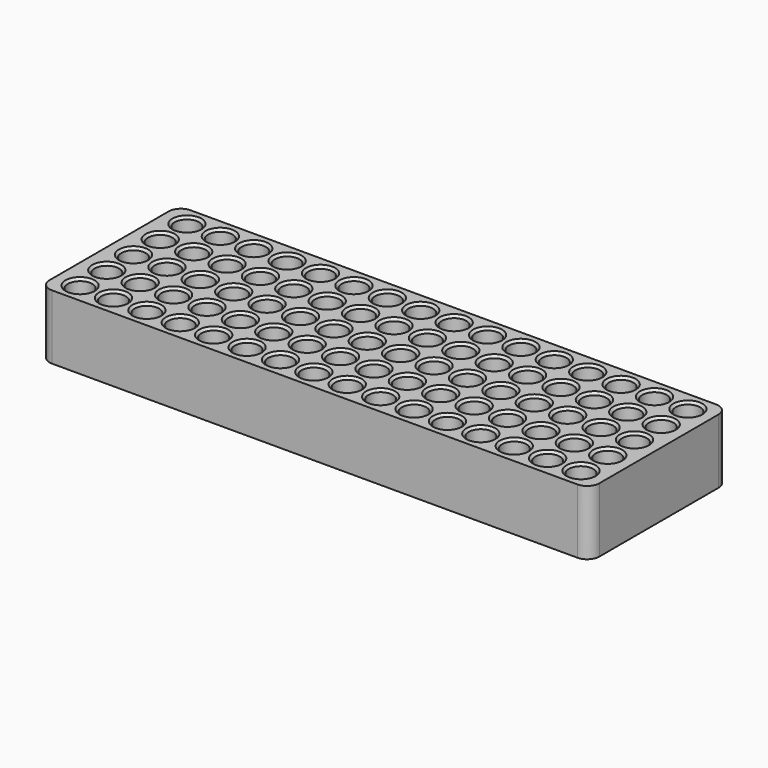
from build123d import *

# Parameters (mm, degrees)
F0_W     = 230
F0_H     = 72.5
F1_DEPTH = 13.5
F2_R     = 5.1
F3_DEPTH = 27.001
F4_SIZE  = 1
F5_R     = 5.08


with BuildPart() as f1:
    # F0 (on Top) → F1 (new body, symmetric)
    with BuildSketch(Plane.XY):
        Rectangle(F0_W, F0_H)
    extrude(amount=F1_DEPTH, both=True)

    # F2 (on face) → F3 (cut, through all)
    with BuildSketch(Plane.XY.offset(13.5)):
        with Locations((-104.775, 27.94)):
            Circle(F2_R)
        with Locations((-104.775, 13.97)):
            Circle(F2_R)
        with Locations((-104.775, 0)):
            Circle(F2_R)
        with Locations((-104.775, -13.97)):
            Circle(F2_R)
        with Locations((-104.775, -27.94)):
            Circle(F2_R)
        with Locations((-90.805, 27.94)):
            Circle(F2_R)
        with Locations((-90.805, 13.97)):
            Circle(F2_R)
        with Locations((-90.805, 0)):
            Circle(F2_R)
        with Locations((-90.805, -13.97)):
            Circle(F2_R)
        with Locations((-90.805, -27.94)):
            Circle(F2_R)
        with Locations((-76.835, 27.94)):
            Circle(F2_R)
        with Locations((-76.835, 13.97)):
            Circle(F2_R)
        with Locations((-76.835, 0)):
            Circle(F2_R)
        with Locations((-76.835, -13.97)):
            Circle(F2_R)
        with Locations((-76.835, -27.94)):
            Circle(F2_R)
        with Locations((-62.865, 27.94)):
            Circle(F2_R)
        with Locations((-62.865, 13.97)):
            Circle(F2_R)
        with Locations((-62.865, 0)):
            Circle(F2_R)
        with Locations((-62.865, -13.97)):
            Circle(F2_R)
        with Locations((-62.865, -27.94)):
            Circle(F2_R)
        with Locations((-48.895, 27.94)):
            Circle(F2_R)
        with Locations((-48.895, 13.97)):
            Circle(F2_R)
        with Locations((-48.895, 0)):
            Circle(F2_R)
        with Locations((-48.895, -13.97)):
            Circle(F2_R)
        with Locations((-48.895, -27.94)):
            Circle(F2_R)
        with Locations((-34.925, 27.94)):
            Circle(F2_R)
        with Locations((-34.925, 13.97)):
            Circle(F2_R)
        with Locations((-34.925, 0)):
            Circle(F2_R)
        with Locations((-34.925, -13.97)):
            Circle(F2_R)
        with Locations((-34.925, -27.94)):
            Circle(F2_R)
        with Locations((-20.955, 27.94)):
            Circle(F2_R)
        with Locations((-20.955, 13.97)):
            Circle(F2_R)
        with Locations((-20.955, 0)):
            Circle(F2_R)
        with Locations((-20.955, -13.97)):
            Circle(F2_R)
        with Locations((-20.955, -27.94)):
            Circle(F2_R)
        with Locations((-6.985, 27.94)):
            Circle(F2_R)
        with Locations((-6.985, 13.97)):
            Circle(F2_R)
        with Locations((-6.985, 0)):
            Circle(F2_R)
        with Locations((-6.985, -13.97)):
            Circle(F2_R)
        with Locations((-6.985, -27.94)):
            Circle(F2_R)
        with Locations((6.985, 27.94)):
            Circle(F2_R)
        with Locations((6.985, 13.97)):
            Circle(F2_R)
        with Locations((6.985, 0)):
            Circle(F2_R)
        with Locations((6.985, -13.97)):
            Circle(F2_R)
        with Locations((6.985, -27.94)):
            Circle(F2_R)
        with Locations((20.955, 27.94)):
            Circle(F2_R)
        with Locations((20.955, 13.97)):
            Circle(F2_R)
        with Locations((20.955, 0)):
            Circle(F2_R)
        with Locations((20.955, -13.97)):
            Circle(F2_R)
        with Locations((20.955, -27.94)):
            Circle(F2_R)
        with Locations((34.925, 27.94)):
            Circle(F2_R)
        with Locations((34.925, 13.97)):
            Circle(F2_R)
        with Locations((34.925, 0)):
            Circle(F2_R)
        with Locations((34.925, -13.97)):
            Circle(F2_R)
        with Locations((34.925, -27.94)):
            Circle(F2_R)
        with Locations((48.895, 27.94)):
            Circle(F2_R)
        with Locations((48.895, 13.97)):
            Circle(F2_R)
        with Locations((48.895, 0)):
            Circle(F2_R)
        with Locations((48.895, -13.97)):
            Circle(F2_R)
        with Locations((48.895, -27.94)):
            Circle(F2_R)
        with Locations((62.865, 27.94)):
            Circle(F2_R)
        with Locations((62.865, 13.97)):
            Circle(F2_R)
        with Locations((62.865, 0)):
            Circle(F2_R)
        with Locations((62.865, -13.97)):
            Circle(F2_R)
        with Locations((62.865, -27.94)):
            Circle(F2_R)
        with Locations((76.835, 27.94)):
            Circle(F2_R)
        with Locations((76.835, 13.97)):
            Circle(F2_R)
        with Locations((76.835, 0)):
            Circle(F2_R)
        with Locations((76.835, -13.97)):
            Circle(F2_R)
        with Locations((76.835, -27.94)):
            Circle(F2_R)
        with Locations((90.805, 27.94)):
            Circle(F2_R)
        with Locations((90.805, 13.97)):
            Circle(F2_R)
        with Locations((90.805, 0)):
            Circle(F2_R)
        with Locations((90.805, -13.97)):
            Circle(F2_R)
        with Locations((90.805, -27.94)):
            Circle(F2_R)
        with Locations((104.775, 27.94)):
            Circle(F2_R)
        with Locations((104.775, 13.97)):
            Circle(F2_R)
        with Locations((104.775, 0)):
            Circle(F2_R)
        with Locations((104.775, -13.97)):
            Circle(F2_R)
        with Locations((104.775, -27.94)):
            Circle(F2_R)
    extrude(amount=-F3_DEPTH, mode=Mode.SUBTRACT)

    # F4
    f4_edges = [f1.edges().sort_by_distance(p)[0] for p in [
        (-109.875, 27.94, 13.5),
        (-99.675, 27.94, 0),
        (-109.875, 27.94, -13.5),
        (-109.875, 13.97, 13.5),
        (-99.675, 13.97, 0),
        (-109.875, 13.97, -13.5),
        (-95.905, 27.94, 13.5),
        (-85.705, 27.94, 0),
        (-95.905, 27.94, -13.5),
        (-95.905, 13.97, 13.5),
        (-85.705, 13.97, 0),
        (-95.905, 13.97, -13.5),
        (-81.935, 27.94, 13.5),
        (-71.735, 27.94, 0),
        (-81.935, 27.94, -13.5),
        (-67.965, 27.94, 13.5),
        (-57.765, 27.94, 0),
        (-67.965, 27.94, -13.5),
        (-53.995, 27.94, 13.5),
        (-43.795, 27.94, 0),
        (-53.995, 27.94, -13.5),
        (-81.935, 13.97, 13.5),
        (-71.735, 13.97, 0),
        (-81.935, 13.97, -13.5),
        (-81.935, 0, 13.5),
        (-71.735, 0, 0),
        (-81.935, 0, -13.5),
        (-81.935, -13.97, 13.5),
        (-71.735, -13.97, 0),
        (-81.935, -13.97, -13.5),
        (-81.935, -27.94, 13.5),
        (-71.735, -27.94, 0),
        (-81.935, -27.94, -13.5),
        (-67.965, -27.94, 13.5),
        (-57.765, -27.94, 0),
        (-67.965, -27.94, -13.5),
        (-67.965, -13.97, 13.5),
        (-57.765, -13.97, 0),
        (-67.965, -13.97, -13.5),
        (-67.965, 0, 13.5),
        (-57.765, 0, 0),
        (-67.965, 0, -13.5),
        (-67.965, 13.97, 13.5),
        (-57.765, 13.97, 0),
        (-67.965, 13.97, -13.5),
        (-53.995, 0, 13.5),
        (-43.795, 0, 0),
        (-53.995, 0, -13.5),
        (-53.995, -13.97, 13.5),
        (-43.795, -13.97, 0),
        (-53.995, -13.97, -13.5),
        (-53.995, -27.94, 13.5),
        (-43.795, -27.94, 0),
        (-53.995, -27.94, -13.5),
        (-53.995, 13.97, 13.5),
        (-43.795, 13.97, 0),
        (-53.995, 13.97, -13.5),
        (-40.025, 13.97, 13.5),
        (-29.825, 13.97, 0),
        (-40.025, 13.97, -13.5),
        (-40.025, 27.94, 13.5),
        (-29.825, 27.94, 0),
        (-40.025, 27.94, -13.5),
        (-26.055, 27.94, 13.5),
        (-26.055, 13.97, 13.5),
        (-15.855, 13.97, 0),
        (-26.055, 13.97, -13.5),
        (-15.855, 27.94, 0),
        (-26.055, 27.94, -13.5),
        (-26.055, 0, 13.5),
        (-15.855, 0, 0),
        (-26.055, 0, -13.5),
        (-40.025, 0, 13.5),
        (-29.825, 0, 0),
        (-40.025, 0, -13.5),
        (-40.025, -13.97, 13.5),
        (-29.825, -13.97, 0),
        (-40.025, -13.97, -13.5),
        (-26.055, -13.97, 13.5),
        (-15.855, -13.97, 0),
        (-26.055, -13.97, -13.5),
        (-40.025, -27.94, 13.5),
        (-29.825, -27.94, 0),
        (-40.025, -27.94, -13.5),
        (-26.055, -27.94, 13.5),
        (-15.855, -27.94, 0),
        (-26.055, -27.94, -13.5),
        (-12.085, -27.94, 13.5),
        (-1.885, -27.94, 0),
        (-12.085, -27.94, -13.5),
        (-12.085, -13.97, 13.5),
        (-1.885, -13.97, 0),
        (-12.085, -13.97, -13.5),
        (-12.085, 0, 13.5),
        (-1.885, 0, 0),
        (-12.085, 0, -13.5),
        (-12.085, 13.97, 13.5),
        (-1.885, 13.97, 0),
        (-12.085, 13.97, -13.5),
        (-12.085, 27.94, 13.5),
        (-1.885, 27.94, 0),
        (-12.085, 27.94, -13.5),
        (1.885, 27.94, 13.5),
        (12.085, 27.94, 0),
        (1.885, 27.94, -13.5),
        (1.885, 13.97, 13.5),
        (12.085, 13.97, 0),
        (1.885, 13.97, -13.5),
        (1.885, 0, 13.5),
        (12.085, 0, 0),
        (1.885, 0, -13.5),
        (1.885, -13.97, 13.5),
        (12.085, -13.97, 0),
        (1.885, -13.97, -13.5),
        (1.885, -27.94, 13.5),
        (12.085, -27.94, 0),
        (1.885, -27.94, -13.5),
        (15.855, -27.94, 13.5),
        (26.055, -27.94, 0),
        (15.855, -27.94, -13.5),
        (15.855, -13.97, 13.5),
        (26.055, -13.97, 0),
        (15.855, -13.97, -13.5),
        (15.855, 0, 13.5),
        (26.055, 0, 0),
        (15.855, 0, -13.5),
        (15.855, 13.97, 13.5),
        (26.055, 13.97, 0),
        (15.855, 13.97, -13.5),
        (15.855, 27.94, 13.5),
        (26.055, 27.94, 0),
        (15.855, 27.94, -13.5),
        (29.825, 27.94, 13.5),
        (40.025, 27.94, 0),
        (29.825, 27.94, -13.5),
        (29.825, 13.97, 13.5),
        (40.025, 13.97, 0),
        (29.825, 13.97, -13.5),
        (43.795, 27.94, 13.5),
        (53.995, 27.94, 0),
        (43.795, 27.94, -13.5),
        (43.795, 13.97, 13.5),
        (53.995, 13.97, 0),
        (43.795, 13.97, -13.5),
        (43.795, 0, 13.5),
        (53.995, 0, 0),
        (43.795, 0, -13.5),
        (29.825, 0, 13.5),
        (40.025, 0, 0),
        (29.825, 0, -13.5),
        (29.825, -13.97, 13.5),
        (40.025, -13.97, 0),
        (29.825, -13.97, -13.5),
        (43.795, -13.97, 13.5),
        (53.995, -13.97, 0),
        (43.795, -13.97, -13.5),
        (43.795, -27.94, 13.5),
        (53.995, -27.94, 0),
        (43.795, -27.94, -13.5),
        (29.825, -27.94, 13.5),
        (40.025, -27.94, 0),
        (29.825, -27.94, -13.5),
        (57.765, -27.94, 13.5),
        (67.965, -27.94, 0),
        (57.765, -27.94, -13.5),
        (57.765, -13.97, 13.5),
        (67.965, -13.97, 0),
        (57.765, -13.97, -13.5),
        (57.765, 0, 13.5),
        (67.965, 0, 0),
        (57.765, 0, -13.5),
        (57.765, 13.97, 13.5),
        (67.965, 13.97, 0),
        (57.765, 13.97, -13.5),
        (57.765, 27.94, 13.5),
        (67.965, 27.94, 0),
        (57.765, 27.94, -13.5),
        (-109.875, -27.94, 13.5),
        (-99.675, -27.94, 0),
        (-109.875, -27.94, -13.5),
        (-95.905, -27.94, 13.5),
        (-85.705, -27.94, 0),
        (-95.905, -27.94, -13.5),
        (-95.905, -13.97, 13.5),
        (-85.705, -13.97, 0),
        (-95.905, -13.97, -13.5),
        (-109.875, -13.97, 13.5),
        (-99.675, -13.97, 0),
        (-109.875, -13.97, -13.5),
        (-109.875, 0, 13.5),
        (-99.675, 0, 0),
        (-109.875, 0, -13.5),
        (-95.905, 0, 13.5),
        (-85.705, 0, 0),
        (-95.905, 0, -13.5),
        (99.675, -27.94, 13.5),
        (109.875, -27.94, 0),
        (99.675, -27.94, -13.5),
        (85.705, -27.94, 13.5),
        (95.905, -27.94, 0),
        (85.705, -27.94, -13.5),
        (71.735, -27.94, 13.5),
        (81.935, -27.94, 0),
        (71.735, -27.94, -13.5),
        (71.735, -13.97, 13.5),
        (81.935, -13.97, 0),
        (71.735, -13.97, -13.5),
        (85.705, -13.97, 13.5),
        (95.905, -13.97, 0),
        (85.705, -13.97, -13.5),
        (99.675, -13.97, 13.5),
        (109.875, -13.97, 0),
        (99.675, -13.97, -13.5),
        (99.675, 0, 13.5),
        (109.875, 0, 0),
        (99.675, 0, -13.5),
        (85.705, 0, 13.5),
        (95.905, 0, 0),
        (85.705, 0, -13.5),
        (71.735, 0, 13.5),
        (71.735, 13.97, 13.5),
        (81.935, 13.97, 0),
        (71.735, 13.97, -13.5),
        (71.735, 27.94, 13.5),
        (81.935, 27.94, 0),
        (71.735, 27.94, -13.5),
        (85.705, 27.94, 13.5),
        (95.905, 27.94, 0),
        (85.705, 27.94, -13.5),
        (85.705, 13.97, 13.5),
        (95.905, 13.97, 0),
        (85.705, 13.97, -13.5),
        (99.675, 13.97, 13.5),
        (81.935, 0, 0),
        (71.735, 0, -13.5),
        (99.675, 27.94, 13.5),
        (109.875, 27.94, 0),
        (99.675, 27.94, -13.5),
        (109.875, 13.97, 0),
        (99.675, 13.97, -13.5),
    ]]
    chamfer(f4_edges, length=F4_SIZE)

    # F5
    f5_edges = [f1.edges().sort_by_distance(p)[0] for p in [
        (-115, -36.25, 0),
        (115, -36.25, 0),
        (115, 36.25, 0),
        (-115, 36.25, 0),
    ]]
    fillet(f5_edges, radius=F5_R)


solid = f1.part
